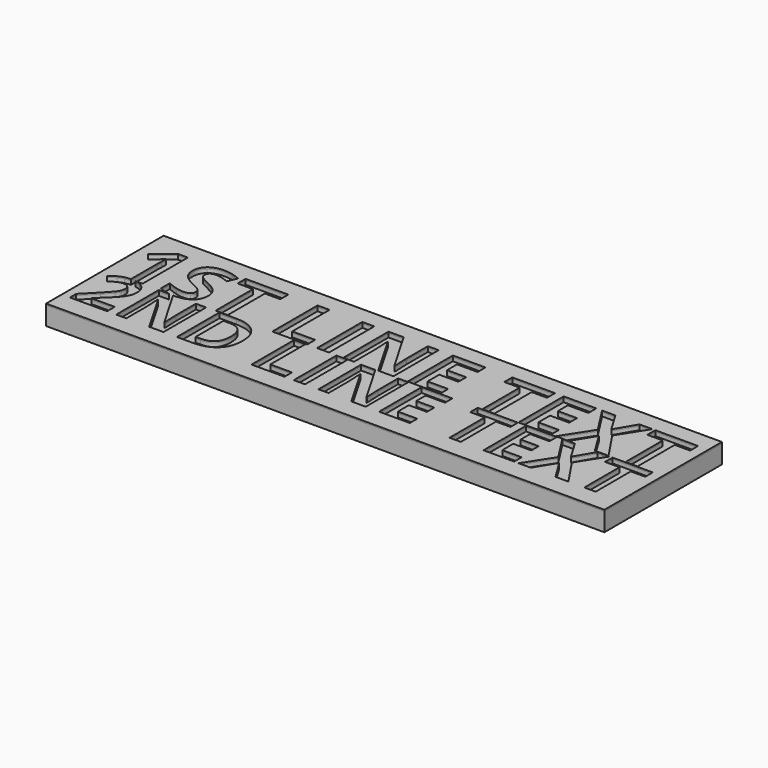
from build123d import *

# Parameters (mm, degrees)
F0_W     = 76
F0_H     = 20
F1_DEPTH = 2.5
F2_W     = 1.6323593171
F2_H     = 7.6968521362
F2_W_2   = 1.5382261565
F2_H_2   = 7.2529982551
F3_DEPTH = 0.5
F4_DEPTH = 0.2


with BuildPart() as f1:
    # F0 (on Top) → F1 (new body)
    with BuildSketch(Plane.XY):
        Rectangle(F0_W, F0_H)
    extrude(amount=F1_DEPTH)

    # F2 (on face) → F3 (cut)
    with BuildSketch(Plane.XY.offset(2.5)):
        with BuildLine():
            Line((-33.7952669979, -0.0125508084), (-32.8459669407, -0.0125508084))
            Line((-32.8459669407, -0.0125508084), (-32.8459669407, 7.6843013278))
            Line((-32.8459669407, 7.6843013278), (-34.1835245235, 7.6843013278))
            Line((-34.1835245235, 7.6843013278), (-36.663228254, 5.7099719989))
            Line((-36.663228254, 5.7099719989), (-35.8782133502, 4.7312302412))
            Line((-35.8782133502, 4.7312302412), (-34.9938081474, 5.4421235661))
            add(Edge.make_bspline(
                [(-34.4311579803, 5.9727666877), (-34.8354575016, 5.5684671665), (-34.9938081474, 5.4421235661)],
                knots=[0, 0, 0, 1, 1, 1], degree=2))
            Line((-34.4311579803, 5.9727666877), (-34.4564267004, 5.1725905519))
            Line((-34.4564267004, 5.1725905519), (-34.4732725138, 4.4414822509))
            Line((-34.4732725138, 4.4414822509), (-34.4732725138, 0.0265217732))
            add(Edge.make_bspline(
                [(-34.4732725138, 0.0265217732), (-34.3994889521, 0.0287225456), (-34.3235561987, 0.0287225456)],
                knots=[0.8528198055, 0.8528198055, 0.8528198055, 1, 1, 1], degree=2))
            add(Edge.make_bspline(
                [(-34.3235561987, 0.0287225456), (-34.0461829592, 0.0287225456), (-33.7952669979, -0.0125508084)],
                knots=[0, 0, 0, 0.4082482905, 0.4082482905, 0.4082482905], degree=2))
        make_face()
        with BuildLine():
            add(Edge.make_bspline(
                [(-33.7952669979, -0.0125508084), (-33.4315668858, -0.0723761118), (-33.123454058, -0.2189175786)],
                knots=[0.4082482905, 0.4082482905, 0.4082482905, 1, 1, 1], degree=2))
            Line((-33.7952669979, -0.0125508084), (-34.4732725138, -0.0125508084))
            Line((-34.4732725138, -0.0125508084), (-34.4732725138, 0.0265217732))
            add(Edge.make_bspline(
                [(-35.2561752564, -0.0728734028), (-34.9008034251, 0.0137696342), (-34.4732725138, 0.0265217732)],
                knots=[0, 0, 0, 0.8528198055, 0.8528198055, 0.8528198055], degree=2))
            add(Edge.make_bspline(
                [(-36.0252883347, -0.3625805995), (-35.6728773886, -0.1744693512), (-35.2561752564, -0.0728734028)],
                knots=[0, 0, 0, 1, 1, 1], degree=2))
            add(Edge.make_bspline(
                [(-36.9126654467, -1.0078736156), (-36.3776992808, -0.5506918477), (-36.0252883347, -0.3625805995)],
                knots=[0, 0, 0, 1, 1, 1], degree=2))
            Line((-36.9126654467, -1.0078736156), (-36.0792611823, -1.9952592393))
            add(Edge.make_bspline(
                [(-35.250619228, -1.4444187064), (-35.6474784015, -1.6380859831), (-36.0792611823, -1.9952592393)],
                knots=[0, 0, 0, 1, 1, 1], degree=2))
            add(Edge.make_bspline(
                [(-34.4330893306, -1.2507514298), (-34.8537600545, -1.2507514298), (-35.250619228, -1.4444187064)],
                knots=[0, 0, 0, 1, 1, 1], degree=2))
            add(Edge.make_bspline(
                [(-33.7901774695, -1.4642616651), (-34.031467847, -1.2507514298), (-34.4330893306, -1.2507514298)],
                knots=[0, 0, 0, 1, 1, 1], degree=2))
            add(Edge.make_bspline(
                [(-33.548887092, -2.1143169913), (-33.548887092, -1.6777719005), (-33.7901774695, -1.4642616651)],
                knots=[0, 0, 0, 1, 1, 1], degree=2))
            add(Edge.make_bspline(
                [(-33.6584202239, -2.6794444544), (-33.548887092, -2.406405343), (-33.548887092, -2.1143169913)],
                knots=[0, 0, 0, 1, 1, 1], degree=2))
            add(Edge.make_bspline(
                [(-34.01559348, -3.2723520596), (-33.7679533557, -2.9524835658), (-33.6584202239, -2.6794444544)],
                knots=[0, 0, 0, 1, 1, 1], degree=2))
            add(Edge.make_bspline(
                [(-35.0728263183, -4.4208625078), (-34.2632336043, -3.5922205535), (-34.01559348, -3.2723520596)],
                knots=[0, 0, 0, 1, 1, 1], degree=2))
            Line((-35.0728263183, -4.4208625078), (-36.8936162063, -6.2607016362))
            Line((-36.8936162063, -6.2607016362), (-36.8936162063, -7.3274590946))
            Line((-36.8936162063, -7.3274590946), (-31.8233434055, -7.3274590946))
            Line((-31.8233434055, -7.3274590946), (-31.8233434055, -6.0368730623))
            Line((-31.8233434055, -6.0368730623), (-34.9839298634, -6.0368730623))
            Line((-34.9839298634, -6.0368730623), (-34.9839298634, -5.9686132845))
            Line((-34.9839298634, -5.9686132845), (-34.0505170873, -5.0907607927))
            add(Edge.make_bspline(
                [(-32.7488189982, -3.7755694917), (-33.1186917479, -4.2367198513), (-34.0505170873, -5.0907607927)],
                knots=[0, 0, 0, 1, 1, 1], degree=2))
            add(Edge.make_bspline(
                [(-32.2027407754, -2.8754928861), (-32.3789462485, -3.314419132), (-32.7488189982, -3.7755694917)],
                knots=[0, 0, 0, 1, 1, 1], degree=2))
            add(Edge.make_bspline(
                [(-32.0265353024, -1.9349366449), (-32.0265353024, -2.4365666402), (-32.2027407754, -2.8754928861)],
                knots=[0, 0, 0, 1, 1, 1], degree=2))
            add(Edge.make_bspline(
                [(-32.3146550623, -0.9134211323), (-32.0265353024, -1.3602845617), (-32.0265353024, -1.9349366449)],
                knots=[0, 0, 0, 1, 1, 1], degree=2))
            add(Edge.make_bspline(
                [(-33.123454058, -0.2189175786), (-32.6027748223, -0.4665577029), (-32.3146550623, -0.9134211323)],
                knots=[0, 0, 0, 1, 1, 1], degree=2))
        make_face()
        with BuildLine():
            Line((-34.4732725138, -0.0125508084), (-33.7952669979, -0.0125508084))
            add(Edge.make_bspline(
                [(-34.3235561987, 0.0287225456), (-34.0461829592, 0.0287225456), (-33.7952669979, -0.0125508084)],
                knots=[0, 0, 0, 0.4082482905, 0.4082482905, 0.4082482905], degree=2))
            add(Edge.make_bspline(
                [(-34.4732725138, 0.0265217732), (-34.3994889521, 0.0287225456), (-34.3235561987, 0.0287225456)],
                knots=[0.8528198055, 0.8528198055, 0.8528198055, 1, 1, 1], degree=2))
            Line((-34.4732725138, 0.0265217732), (-34.4732725138, -0.0125508084))
        make_face()
        with BuildLine():
            add(Edge.make_bspline(
                [(-25.63427423, 2.1251829103), (-25.63427423, 1.0824270617), (-26.3847552163, 0.4818738145)],
                knots=[0, 0, 0, 1, 1, 1], degree=2))
            add(Edge.make_bspline(
                [(-26.0343622979, 3.3961995303), (-25.63427423, 2.8781907687), (-25.63427423, 2.1251829103)],
                knots=[0, 0, 0, 1, 1, 1], degree=2))
            add(Edge.make_bspline(
                [(-27.5142670039, 4.4313747629), (-26.4344503658, 3.9142082919), (-26.0343622979, 3.3961995303)],
                knots=[0, 0, 0, 1, 1, 1], degree=2))
            add(Edge.make_bspline(
                [(-28.5477576551, 4.9704407913), (-28.3296043718, 4.8205130521), (-27.5142670039, 4.4313747629)],
                knots=[0, 0, 0, 1, 1, 1], degree=2))
            add(Edge.make_bspline(
                [(-28.8661435281, 5.2812460482), (-28.7659109385, 5.1203685304), (-28.5477576551, 4.9704407913)],
                knots=[0, 0, 0, 1, 1, 1], degree=2))
            add(Edge.make_bspline(
                [(-28.9663761178, 5.6577499774), (-28.9663761178, 5.4421235661), (-28.8661435281, 5.2812460482)],
                knots=[0, 0, 0, 1, 1, 1], degree=2))
            add(Edge.make_bspline(
                [(-28.718742661, 6.2204001445), (-28.9663761178, 6.0047737332), (-28.9663761178, 5.6577499774)],
                knots=[0, 0, 0, 1, 1, 1], degree=2))
            add(Edge.make_bspline(
                [(-28.0078493361, 6.4360265559), (-28.4711092042, 6.4360265559), (-28.718742661, 6.2204001445)],
                knots=[0, 0, 0, 1, 1, 1], degree=2))
            add(Edge.make_bspline(
                [(-27.2160961069, 6.3357939662), (-27.6187110469, 6.4360265559), (-28.0078493361, 6.4360265559)],
                knots=[0, 0, 0, 1, 1, 1], degree=2))
            add(Edge.make_bspline(
                [(-26.1969243971, 5.9828741758), (-26.813481167, 6.2355613766), (-27.2160961069, 6.3357939662)],
                knots=[0, 0, 0, 1, 1, 1], degree=2))
            Line((-26.1969243971, 5.9828741758), (-25.6713350194, 7.2530485051))
            add(Edge.make_bspline(
                [(-26.810954295, 7.6522942824), (-26.265992232, 7.5107894499), (-25.6713350194, 7.2530485051)],
                knots=[0, 0, 0, 1, 1, 1], degree=2))
            add(Edge.make_bspline(
                [(-27.9556273146, 7.7937991148), (-27.3559163581, 7.7937991148), (-26.810954295, 7.6522942824)],
                knots=[0, 0, 0, 1, 1, 1], degree=2))
            add(Edge.make_bspline(
                [(-29.8693117153, 7.210091681), (-29.1769487851, 7.7937991148), (-27.9556273146, 7.7937991148)],
                knots=[0, 0, 0, 1, 1, 1], degree=2))
            add(Edge.make_bspline(
                [(-30.5616746455, 5.6038433746), (-30.5616746455, 6.6263842471), (-29.8693117153, 7.210091681)],
                knots=[0, 0, 0, 1, 1, 1], degree=2))
            add(Edge.make_bspline(
                [(-30.3511019781, 4.6571086623), (-30.5616746455, 5.0630927649), (-30.5616746455, 5.6038433746)],
                knots=[0, 0, 0, 1, 1, 1], degree=2))
            add(Edge.make_bspline(
                [(-29.7876095204, 3.9462153374), (-30.1405293108, 4.2511245597), (-30.3511019781, 4.6571086623)],
                knots=[0, 0, 0, 1, 1, 1], degree=2))
            add(Edge.make_bspline(
                [(-28.7305347304, 3.3094435914), (-29.4346897299, 3.6413061151), (-29.7876095204, 3.9462153374)],
                knots=[0, 0, 0, 1, 1, 1], degree=2))
            add(Edge.make_bspline(
                [(-27.7324202872, 2.7880656671), (-27.977526872, 2.9506277662), (-28.7305347304, 3.3094435914)],
                knots=[0, 0, 0, 1, 1, 1], degree=2))
            add(Edge.make_bspline(
                [(-27.3609701021, 2.4486225273), (-27.4873137025, 2.6255035679), (-27.7324202872, 2.7880656671)],
                knots=[0, 0, 0, 1, 1, 1], degree=2))
            add(Edge.make_bspline(
                [(-27.2346265017, 2.0460075874), (-27.2346265017, 2.2717414868), (-27.3609701021, 2.4486225273)],
                knots=[0, 0, 0, 1, 1, 1], degree=2))
            add(Edge.make_bspline(
                [(-27.5218476199, 1.4353468521), (-27.2346265017, 1.6400234848), (-27.2346265017, 2.0460075874)],
                knots=[0, 0, 0, 1, 1, 1], degree=2))
            add(Edge.make_bspline(
                [(-28.3447656038, 1.2306702195), (-27.8090687381, 1.2306702195), (-27.5218476199, 1.4353468521)],
                knots=[0, 0, 0, 1, 1, 1], degree=2))
            add(Edge.make_bspline(
                [(-29.3327725589, 1.3721750519), (-28.7928642399, 1.2306702195), (-28.3447656038, 1.2306702195)],
                knots=[0, 0, 0, 1, 1, 1], degree=2))
            add(Edge.make_bspline(
                [(-30.6509574564, 1.8623882215), (-29.872680878, 1.5136798844), (-29.3327725589, 1.3721750519)],
                knots=[0, 0, 0, 1, 1, 1], degree=2))
            Line((-30.6509574564, 1.8623882215), (-30.6509574564, 0.3462650167))
            add(Edge.make_bspline(
                [(-29.2044357561, -0.0744608395), (-29.9961873648, 0.0247053276), (-30.6509574564, 0.3462650167)],
                knots=[0.3083911648, 0.3083911648, 0.3083911648, 1, 1, 1], degree=2))
            Line((-29.2044357561, -0.0744608395), (-28.6484700174, -0.0744608395))
            Line((-28.6484700174, -0.0744608395), (-28.6238826172, -0.1168691477))
            add(Edge.make_bspline(
                [(-28.4711092042, -0.1186794328), (-28.548053426, -0.1186794328), (-28.6238826172, -0.1168691477)],
                knots=[0, 0, 0, 0.0623983269, 0.0623983269, 0.0623983269], degree=2))
            add(Edge.make_bspline(
                [(-26.3847552163, 0.4818738145), (-27.1352362027, -0.1186794328), (-28.4711092042, -0.1186794328)],
                knots=[0, 0, 0, 1, 1, 1], degree=2))
        make_face()
        with BuildLine():
            Line((-25.4989956165, -5.5066692065), (-28.6238826172, -0.1168691477))
            add(Edge.make_bspline(
                [(-28.6238826172, -0.1168691477), (-28.9228239326, -0.1097324636), (-29.2044357561, -0.0744608395)],
                knots=[0.0623983269, 0.0623983269, 0.0623983269, 0.3083911648, 0.3083911648, 0.3083911648], degree=2))
            Line((-29.2044357561, -0.0744608395), (-30.5883176576, -0.0744608395))
            Line((-30.5883176576, -0.0744608395), (-30.5883176576, -7.3274590946))
            Line((-30.5883176576, -7.3274590946), (-29.2135974805, -7.3274590946))
            Line((-29.2135974805, -7.3274590946), (-29.2135974805, -3.9144702024))
            add(Edge.make_bspline(
                [(-29.3088436822, -1.84127788), (-29.2135974805, -3.293782455), (-29.2135974805, -3.9144702024)],
                knots=[0, 0, 0, 1, 1, 1], degree=2))
            Line((-29.3088436822, -1.84127788), (-29.2643954547, -1.84127788))
            Line((-29.2643954547, -1.84127788), (-26.108571307, -7.3274590946))
            Line((-26.108571307, -7.3274590946), (-24.1544367366, -7.3274590946))
            Line((-24.1544367366, -7.3274590946), (-24.1544367366, -0.0744608395))
            Line((-24.1544367366, -0.0744608395), (-25.5386815338, -0.0744608395))
            Line((-25.5386815338, -0.0744608395), (-25.5386815338, -3.5080864087))
            add(Edge.make_bspline(
                [(-25.4640720092, -5.5066692065), (-25.5386815338, -4.0922631121), (-25.5386815338, -3.5080864087)],
                knots=[0, 0, 0, 1, 1, 1], degree=2))
            Line((-25.4640720092, -5.5066692065), (-25.4989956165, -5.5066692065))
        make_face()
        with BuildLine():
            add(Edge.make_bspline(
                [(-28.6238826172, -0.1168691477), (-28.9228239326, -0.1097324636), (-29.2044357561, -0.0744608395)],
                knots=[0.0623983269, 0.0623983269, 0.0623983269, 0.3083911648, 0.3083911648, 0.3083911648], degree=2))
            Line((-28.6238826172, -0.1168691477), (-28.6484700174, -0.0744608395))
            Line((-28.6484700174, -0.0744608395), (-29.2044357561, -0.0744608395))
        make_face()
        Polygon((-22.9018832987, -0.0125508084), (-21.2695239816, -0.0125508084), (-21.2695239816, 6.3265287689), (-19.1806431217, 6.3265287689), (-19.1806431217, 7.6843013278), (-24.99244874, 7.6843013278), (-24.99244874, 6.3265287689), (-22.9018832987, 6.3265287689), align=None)
        Polygon((-15.1949236745, 7.6843013278), (-15.1949236745, -0.0125508084), (-10.4410351368, -0.0125508084), (-10.4410351368, 1.3351142625), (-13.5625643573, 1.3351142625), (-13.5625643573, 7.6843013278), align=None)
        with Locations((-8.2872978954, 3.8358752597)):
            Rectangle(F2_W, F2_H)
        with BuildLine():
            Line((-0.7799611598, -0.0125508084), (1.2937584681, -0.0125508084))
            Line((1.2937584681, -0.0125508084), (1.2937584681, 7.6843013278))
            Line((1.2937584681, 7.6843013278), (-0.1751964592, 7.6843013278))
            Line((-0.1751964592, 7.6843013278), (-0.1751964592, 4.0405518923))
            add(Edge.make_bspline(
                [(-0.0960211363, 1.919663987), (-0.1751964592, 3.4206259597), (-0.1751964592, 4.0405518923)],
                knots=[0, 0, 0, 1, 1, 1], degree=2))
            Line((-0.0960211363, 1.919663987), (-0.1330819258, 1.919663987))
            Line((-0.1330819258, 1.919663987), (-3.4752913016, 7.6843013278))
            Line((-3.4752913016, 7.6843013278), (-5.5338496974, 7.6843013278))
            Line((-5.5338496974, 7.6843013278), (-5.5338496974, -0.0125508084))
            Line((-5.5338496974, -0.0125508084), (-4.0750022582, -0.0125508084))
            Line((-4.0750022582, -0.0125508084), (-4.0750022582, 3.6092990696))
            add(Edge.make_bspline(
                [(-4.1760771385, 5.8093622979), (-4.0750022582, 4.267970373), (-4.0750022582, 3.6092990696)],
                knots=[0, 0, 0, 1, 1, 1], degree=2))
            Line((-4.1760771385, 5.8093622979), (-4.128908861, 5.8093622979))
            Line((-4.128908861, 5.8093622979), (-0.7799611598, -0.0125508084))
        make_face()
        Polygon((3.2310270075, -0.0125508084), (7.6631605094, -0.0125508084), (7.6631605094, 1.3351142625), (4.8633863246, 1.3351142625), (4.8633863246, 3.3195510794), (7.4694336555, 3.3195510794), (7.4694336555, 4.6571086623), (4.8633863246, 4.6571086623), (4.8633863246, 6.3467437449), (7.6631605094, 6.3467437449), (7.6631605094, 7.6843013278), (3.2310270075, 7.6843013278), align=None)
        Polygon((13.4075828742, -0.0125508084), (15.0399421913, -0.0125508084), (15.0399421913, 6.3265287689), (17.1288230512, 6.3265287689), (17.1288230512, 7.6843013278), (11.3170174329, 7.6843013278), (11.3170174329, 6.3265287689), (13.4075828742, 6.3265287689), align=None)
        Polygon((18.3130837323, -0.0125508084), (22.7452172342, -0.0125508084), (22.7452172342, 1.3351142625), (19.9454430494, 1.3351142625), (19.9454430494, 3.3195510794), (22.5514903803, 3.3195510794), (22.5514903803, 4.6571086623), (19.9454430494, 4.6571086623), (19.9454430494, 6.3467437449), (22.7452172342, 6.3467437449), (22.7452172342, 7.6843013278), (18.3130837323, 7.6843013278), align=None)
        Polygon((28.7103197543, -0.0125508084), (30.5734667148, -0.0125508084), (27.972473128, 3.8670400145), (30.3881627676, 7.6843013278), (28.6311444314, 7.6843013278), (27.0038388583, 4.9148496071), (25.3462108211, 7.6843013278), (23.5453933701, 7.6843013278), (25.9358142896, 3.9563228254), (23.3819889802, -0.0125508084), (25.1305844097, -0.0125508084), (26.9196097913, 2.8984057447), align=None)
        Polygon((32.8796585674, -0.0125508084), (34.5120178846, -0.0125508084), (34.5120178846, 6.3265287689), (36.6008987445, 6.3265287689), (36.6008987445, 7.6843013278), (30.7890931262, 7.6843013278), (30.7890931262, 6.3265287689), (32.8796585674, 6.3265287689), align=None)
        with BuildLine():
            add(Edge.make_bspline(
                [(-16.3109120313, -3.6319064708), (-16.3109120313, -5.4225350617), (-17.3308401072, -6.3749970782)],
                knots=[0, 0, 0, 1, 1, 1], degree=2))
            add(Edge.make_bspline(
                [(-17.2935353449, -1.0118422073), (-16.3109120313, -1.9492235752), (-16.3109120313, -3.6319064708)],
                knots=[0, 0, 0, 1, 1, 1], degree=2))
            add(Edge.make_bspline(
                [(-20.0525003192, -0.0744608395), (-18.2761586586, -0.0744608395), (-17.2935353449, -1.0118422073)],
                knots=[0, 0, 0, 1, 1, 1], degree=2))
            Line((-20.0525003192, -0.0744608395), (-22.3288845385, -0.0744608395))
            Line((-22.3288845385, -0.0744608395), (-22.3288845385, -7.3274590946))
            Line((-22.3288845385, -7.3274590946), (-20.2747414564, -7.3274590946))
            add(Edge.make_bspline(
                [(-17.3308401072, -6.3749970782), (-18.3507681832, -7.3274590946), (-20.2747414564, -7.3274590946)],
                knots=[0, 0, 0, 1, 1, 1], degree=2))
        make_face()
        with BuildLine():
            add(Edge.make_bspline(
                [(-17.9094607822, -3.6715923882), (-17.9094607822, -1.3348855746), (-19.9731284845, -1.3348855746)],
                knots=[0, 0, 0, 1, 1, 1], degree=2))
            add(Edge.make_bspline(
                [(-20.1318721539, -6.0575097393), (-17.9094607822, -6.0575097393), (-17.9094607822, -3.6715923882)],
                knots=[0, 0, 0, 1, 1, 1], degree=2))
            Line((-20.1318721539, -6.0575097393), (-20.7906583819, -6.0575097393))
            Line((-20.7906583819, -6.0575097393), (-20.7906583819, -1.3348855746))
            Line((-20.7906583819, -1.3348855746), (-19.9731284845, -1.3348855746))
        make_face(mode=Mode.SUBTRACT)
        Polygon((-12.1677022599, -0.0744608395), (-12.1677022599, -7.3274590946), (-7.6879559093, -7.3274590946), (-7.6879559093, -6.0575097393), (-10.6294761033, -6.0575097393), (-10.6294761033, -0.0744608395), align=None)
        with Locations((-5.6584180959, -3.700959967)):
            Rectangle(F2_W_2, F2_H_2)
        with BuildLine():
            Line((1.4159935311, -7.3274590946), (3.3701281015, -7.3274590946))
            Line((3.3701281015, -7.3274590946), (3.3701281015, -0.0744608395))
            Line((3.3701281015, -0.0744608395), (1.9858833043, -0.0744608395))
            Line((1.9858833043, -0.0744608395), (1.9858833043, -3.5080864087))
            add(Edge.make_bspline(
                [(2.0604928289, -5.5066692065), (1.9858833043, -4.0922631121), (1.9858833043, -3.5080864087)],
                knots=[0, 0, 0, 1, 1, 1], degree=2))
            Line((2.0604928289, -5.5066692065), (2.0255692216, -5.5066692065))
            Line((2.0255692216, -5.5066692065), (-1.1239051794, -0.0744608395))
            Line((-1.1239051794, -0.0744608395), (-3.0637528195, -0.0744608395))
            Line((-3.0637528195, -0.0744608395), (-3.0637528195, -7.3274590946))
            Line((-3.0637528195, -7.3274590946), (-1.6890326425, -7.3274590946))
            Line((-1.6890326425, -7.3274590946), (-1.6890326425, -3.9144702024))
            add(Edge.make_bspline(
                [(-1.7842788441, -1.84127788), (-1.6890326425, -3.293782455), (-1.6890326425, -3.9144702024)],
                knots=[0, 0, 0, 1, 1, 1], degree=2))
            Line((-1.7842788441, -1.84127788), (-1.7398306167, -1.84127788))
            Line((-1.7398306167, -1.84127788), (1.4159935311, -7.3274590946))
        make_face()
        Polygon((5.1956802996, -7.3274590946), (9.3722262416, -7.3274590946), (9.3722262416, -6.0575097393), (6.7339064561, -6.0575097393), (6.7339064561, -4.1875093138), (9.1896710218, -4.1875093138), (9.1896710218, -2.9270845787), (6.7339064561, -2.9270845787), (6.7339064561, -1.3348855746), (9.3722262416, -1.3348855746), (9.3722262416, -0.0744608395), (5.1956802996, -0.0744608395), align=None)
        Polygon((14.7853853683, -7.3274590946), (16.3236115249, -7.3274590946), (16.3236115249, -1.3539348149), (18.2920330255, -1.3539348149), (18.2920330255, -0.0744608395), (12.815376431, -0.0744608395), (12.815376431, -1.3539348149), (14.7853853683, -1.3539348149), align=None)
        Polygon((19.4080010214, -7.3274590946), (23.5845469634, -7.3274590946), (23.5845469634, -6.0575097393), (20.9462271779, -6.0575097393), (20.9462271779, -4.1875093138), (23.4019917436, -4.1875093138), (23.4019917436, -2.9270845787), (20.9462271779, -2.9270845787), (20.9462271779, -1.3348855746), (23.5845469634, -1.3348855746), (23.5845469634, -0.0744608395), (19.4080010214, -0.0744608395), align=None)
        Polygon((29.2056602971, -7.3274590946), (30.9613652807, -7.3274590946), (28.5103630251, -3.6715923882), (30.7867472443, -0.0744608395), (29.1310507724, -0.0744608395), (27.597586926, -2.6842067645), (26.035549219, -0.0744608395), (24.3385793931, -0.0744608395), (26.591152062, -3.5874582434), (24.1845980338, -7.3274590946), (25.8323573222, -7.3274590946), (27.5182150913, -4.5843684873), align=None)
        Polygon((33.1345661148, -7.3274590946), (34.6727922714, -7.3274590946), (34.6727922714, -1.3539348149), (36.641213772, -1.3539348149), (36.641213772, -0.0744608395), (31.1645571775, -0.0744608395), (31.1645571775, -1.3539348149), (33.1345661148, -1.3539348149), align=None)
    extrude(amount=-F3_DEPTH, mode=Mode.SUBTRACT)


with BuildPart() as f4:
    # F4 (new): faces of the model
    f4_faces = [f1.part.faces().sort_by_distance(p)[0] for p in [
        (0.2603407866, -0.0421917663, 2.5),
        (0.2603407866, -0.0421917663, 2.5),
    ]]
    extrude(f4_faces, amount=F4_DEPTH)


with BuildPart() as f4b:
    # F4#2 (new): a face of the model
    f4_2_faces = [f1.part.faces().sort_by_distance(p)[0] for p in [
        (-19.4941581632, -3.6833837978, 2.5),
    ]]
    extrude(f4_2_faces, amount=F4_DEPTH)


solid = Compound([f1.part, f4.part, f4b.part])
